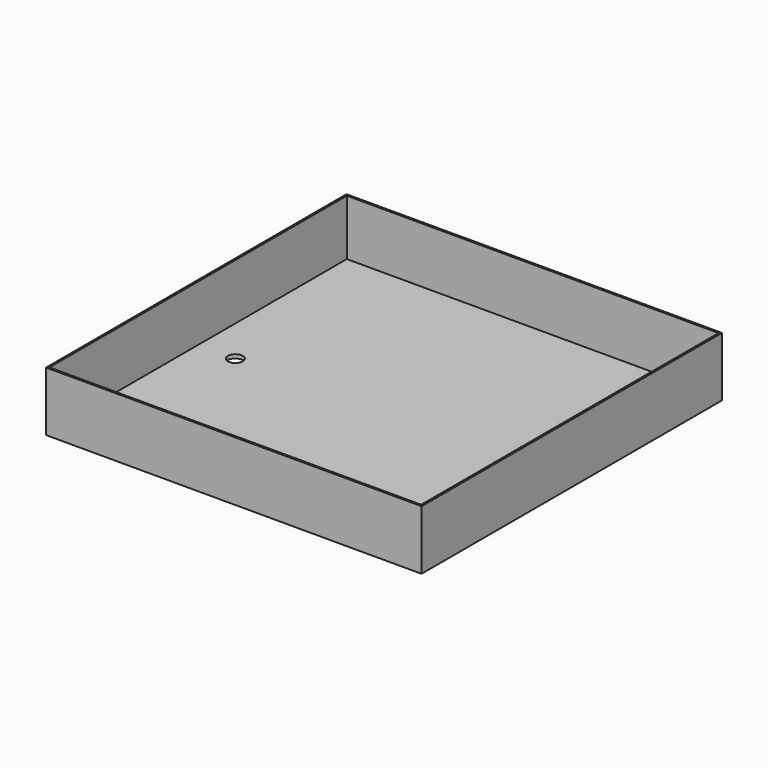
from build123d import *

# Parameters (mm, degrees)
F0_W     = 50.5
F0_H     = 50.5
F1_DEPTH = 8
F2_DEPTH = 0.5


with BuildPart() as f1:
    # F0 (on Top) → F1 (new body)
    with BuildSketch(Plane.XY):
        Rectangle(F0_W, F0_H)
        Polygon((-25, 0), (-25, 25), (25, 25), (25, 0), (25, -25), (-25, -25), align=None, mode=Mode.SUBTRACT)
    extrude(amount=F1_DEPTH)

    # F0 (on Top) → F2 (join)
    with BuildSketch(Plane.XY):
        with BuildLine():
            Line((25, 25), (-25, 25))
            Line((-25, 25), (-25, 0))
            Line((-25, 0), (-21, 0))
            ThreePointArc((-21, 0), (-20, 1), (-19, 0))
            Line((-19, 0), (0, 0))
            Line((0, 0), (19, 0))
            ThreePointArc((19, 0), (20, 1), (21, 0))
            Line((21, 0), (25, 0))
            Line((25, 0), (25, 25))
        make_face()
        with BuildLine():
            Line((-21, 0), (-25, 0))
            Line((-25, 0), (-25, -25))
            Line((-25, -25), (25, -25))
            Line((25, -25), (25, 0))
            Line((25, 0), (21, 0))
            ThreePointArc((21, 0), (20, -1), (19, 0))
            Line((19, 0), (0, 0))
            Line((0, 0), (-19, 0))
            ThreePointArc((-19, 0), (-20, -1), (-21, 0))
        make_face()
    extrude(amount=F2_DEPTH)


solid = f1.part
